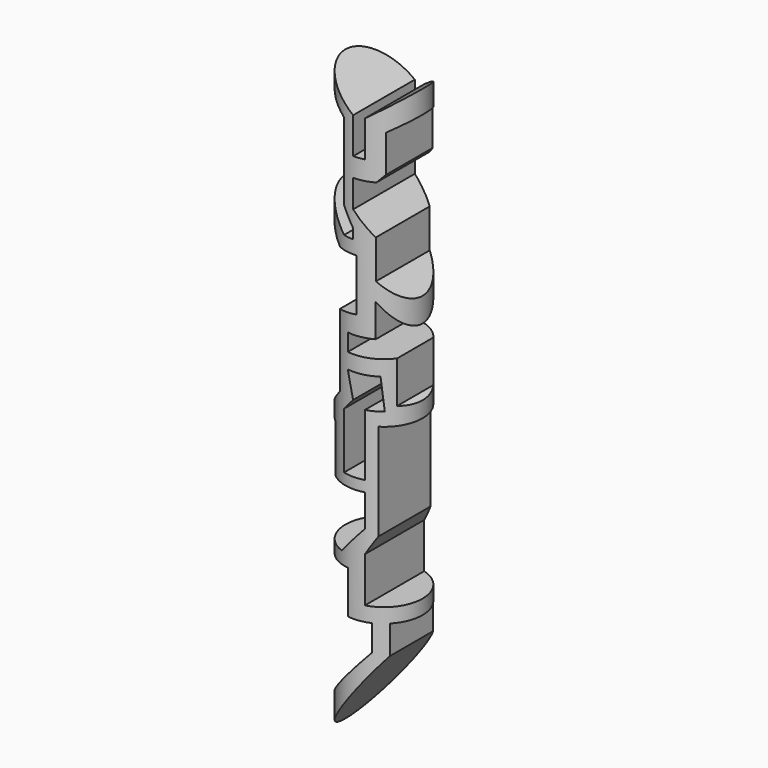
from build123d import *

# Parameters (mm, degrees)
F0_R     = 10.675430612
F1_DEPTH = 137.16
F2_DEPTH = 38.1
F3_W     = 73.8532952964
F3_H     = 204.6351656318
F4_DEPTH = 12.7


with BuildPart() as f1:
    # F0 (on Top) → F1 (new body)
    with BuildSketch(Plane.XY):
        Circle(F0_R)
    extrude(amount=-F1_DEPTH)

    # F2 (add): a face of the model
    f2_faces = [f1.faces().sort_by_distance(p)[0] for p in [
        (0, 0, 0),
    ]]
    extrude(f2_faces, amount=F2_DEPTH)

    # F3 (on Front) → F4 (cut, symmetric)
    with BuildSketch(Plane.XZ):
        with Locations((0.4835147411, -55.2906431258)):
            Rectangle(F3_W, F3_H)
        Polygon((2.9173363, 19.1722828895), (11.8985436857, 25.6116390228), (15.7361086458, 21.5601604432), (6.9777617314, 16.1294173449), (6.9777617314, 5.8243007956), (5.2905785851, 3.9081033319), (0, 3.9081033319), (0, -3.7856895942), (5.2087670282, -9.4788996503), (5.2087670282, -20.1990260627), (15.5135185486, -30.6273752617), (12.1595710516, -34.4365797937), (5.1792738959, -25.212617591), (5.1792738959, -34.3119315803), (-1.5746362042, -34.3119315803), (-1.5746362042, -39.0876196325), (8.6516765878, -39.0876196325), (8.6516765878, -50.6781153381), (13.8188395649, -51.9570671022), (13.8188395649, -55.5720552802), (5.6630028412, -55.5720552802), (5.6630028412, -82.3548957705), (2.9173363, -87.0497524738), (2.9173363, -99.5368526672), (16.7356515435, -99.5368526672), (17.0829258859, -103.5451963544), (7.6496228576, -103.5451963544), (7.6496228576, -111.4576309919), (-13.9778433368, -140.0423496962), (-17.0550644398, -135.2102676343), (4.4348337688, -110.8033806086), (4.4348337688, -103.5782471299), (-1.5746362042, -103.5782471299), (-1.5746362042, -91.662183404), (-13.6558805862, -92.110427912), (-13.9778433368, -88.3942381419), (-3.6802912408, -88.3942381419), (2.9173363, -80.9010639787), (2.9173363, -71.9678923488), (-6.8503268994, -71.9678923488), (-6.8503268994, -58.7706156075), (-12.6116908069, -59.2697678805), (-4.392595496, -49.9350316823), (-4.392595496, -29.8299845308), (0.8731535636, -29.1371215135), (0.8731535636, -14.7255985066), (-4.392595496, -14.7255985066), (-13.9778433368, -6.2859314494), (-17.0550644398, -8.4015205503), (-13.7855187058, 0), (-2.8229181189, -11.0940886661), (0, -11.0940886661), (0, -8.4015205503), (-2.8229181189, -3.7856895942), (-2.8229181189, 17.5625272095), (-15.3241287917, 26.0248854756), (-17.0550644398, 32.3716513813), (0, 19.1722828895), (0, 9.1743338853), (2.9173363, 9.1743338853), align=None, mode=Mode.SUBTRACT)
        Polygon((6.0701598413, -43.3530472219), (-1.5746362042, -43.3530472219), (0, -50.2383581229), (-2.8229181189, -53.4444525838), (-2.8229181189, -68.9763724804), (2.9173363, -68.9763724804), (2.9173363, -51.8846450228), (6.8093192667, -51.8846450228), align=None)
    extrude(amount=F4_DEPTH, both=True, mode=Mode.SUBTRACT)


solid = f1.part
